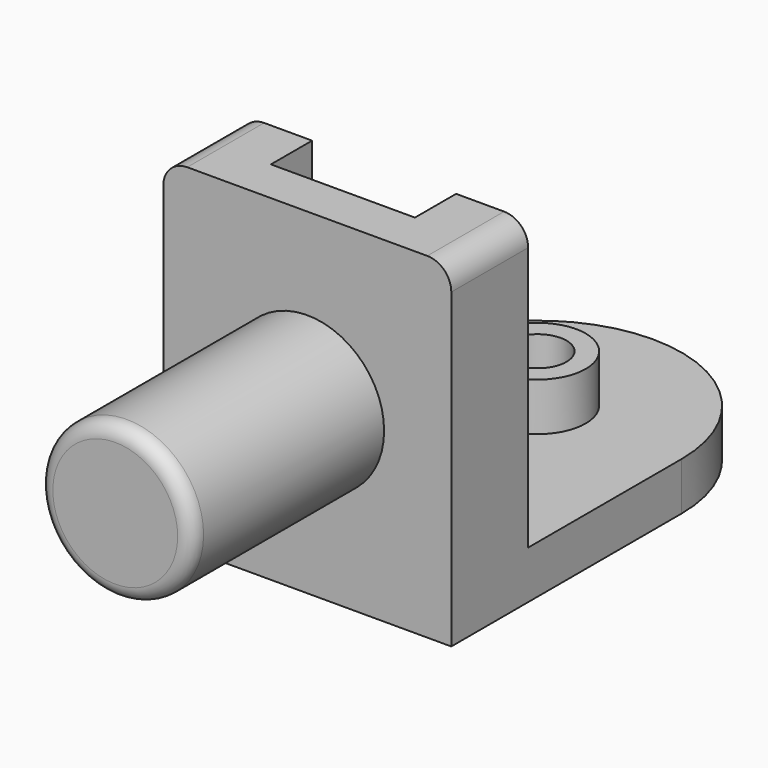
from build123d import *

# Parameters (mm, degrees)
F0_R      = 10
F1_DEPTH  = 10
F0_R_2    = 6
F2_DEPTH  = 20
F0_W      = 60
F0_H      = 20
F3_DEPTH  = 70
F4_R      = 16
F5_DEPTH  = 50
F6_R      = 3
F9_DEPTH  = 65.1
F10_DEPTH = 15
F11_DEPTH = 15
F12_R     = 5
F13_R     = 5


with BuildPart() as f1:
    # F0 (on Top) → F1 (new body)
    with BuildSketch(Plane.XY):
        with BuildLine():
            Line((-34.851886332, 40), (-34.851886332, 0))
            Line((-34.851886332, 0), (25.148113668, 0))
            Line((25.148113668, 0), (25.148113668, 40))
            ThreePointArc((25.148113668, 40), (16.3613171036, 61.2132034356), (-4.851886332, 70))
            ThreePointArc((-4.851886332, 70), (-26.0650897676, 61.2132034356), (-34.851886332, 40))
        make_face()
        with Locations((-4.851886332, 40)):
            Circle(F0_R, mode=Mode.SUBTRACT)
    extrude(amount=F1_DEPTH)

    # F0 (on Top) → F2 (join)
    with BuildSketch(Plane.XY):
        with Locations((-4.851886332, 40)):
            Circle(F0_R)
        with Locations((-4.851886332, 40)):
            Circle(F0_R_2, mode=Mode.SUBTRACT)
    extrude(amount=F2_DEPTH)

    # F0 (on Top) → F3 (join)
    with BuildSketch(Plane.XY):
        with Locations((-4.851886332, -10)):
            Rectangle(F0_W, F0_H)
    extrude(amount=F3_DEPTH)

    # F4 (on face) → F5 (join)
    with BuildSketch(Plane.XZ.offset(20)):
        with Locations((-4.851886332, 35)):
            Circle(F4_R)
    extrude(amount=F5_DEPTH)

    # F6
    f6_edges = [f1.edges().sort_by_distance(p)[0] for p in [
        (-20.851886, -70, 35),
    ]]
    fillet(f6_edges, radius=F6_R)

    # F7 (on face) → F9 (cut)
    with BuildSketch(Plane.YZ.offset(25.148113668)):
        Polygon((0, 30), (0, 70), (-10.7179676972, 70), align=None)
    extrude(amount=-F9_DEPTH, mode=Mode.SUBTRACT)

    # F8 (on face) → F10 (join)
    with BuildSketch(Plane(origin=(-34.851886332, 0, 0), x_dir=(0, -1, 0), z_dir=(-1, 0, 0))):
        Polygon((10.7179676972, 70), (0, 30), (0, 10), (-40, 10), (-40, 0), (20, 0), (20, 70), align=None)
        Polygon((10.7179676972, 70), (0, 70), (0, 30), align=None)
    extrude(amount=-F10_DEPTH)

    # F7 (on face) → F11 (join)
    with BuildSketch(Plane.YZ.offset(25.148113668)):
        Polygon((0, 10), (0, 30), (-10.7179676972, 70), (-20, 70), (-20, 0), (40, 0), (40, 10), align=None)
        Polygon((0, 30), (0, 70), (-10.7179676972, 70), align=None)
    extrude(amount=-F11_DEPTH)

    # F12
    f12_edges = [f1.edges().sort_by_distance(p)[0] for p in [
        (-34.851886, -10, 70),
    ]]
    fillet(f12_edges, radius=F12_R)

    # F13
    f13_edges = [f1.edges().sort_by_distance(p)[0] for p in [
        (25.148114, -10, 70),
    ]]
    fillet(f13_edges, radius=F13_R)


solid = f1.part
